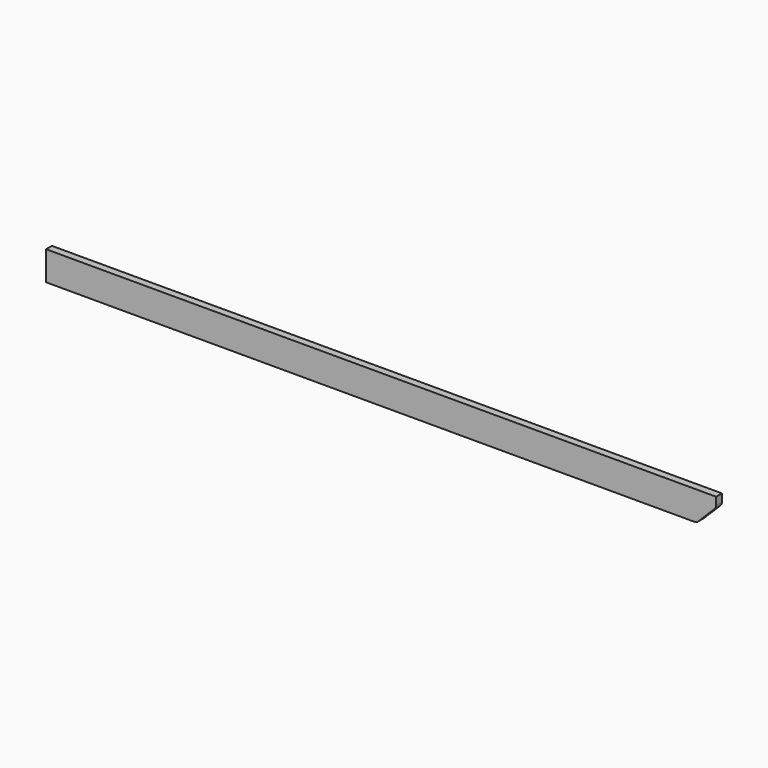
from build123d import *

# Parameters (mm, degrees)
F0_W     = 38.1
F0_H     = 152.4
F1_DEPTH = 3505.2
F2_SIZE  = 101.6
F3_R     = 25.4


with BuildPart() as f1:
    # F0 (on Right) → F1 (new body)
    with BuildSketch(Plane.YZ):
        with Locations((-39.5023208112, 24.7306000911)):
            Rectangle(F0_W, F0_H)
    extrude(amount=-F1_DEPTH)

    # F2
    f2_edges = [f1.edges().sort_by_distance(p)[0] for p in [
        (0, -39.502321, -51.4694),
    ]]
    chamfer(f2_edges, length=F2_SIZE)

    # F3
    f3_edges = [f1.edges().sort_by_distance(p)[0] for p in [
        (0, -39.502321, 50.1306),
        (-101.6, -39.502321, -51.4694),
    ]]
    fillet(f3_edges, radius=F3_R)


solid = f1.part
